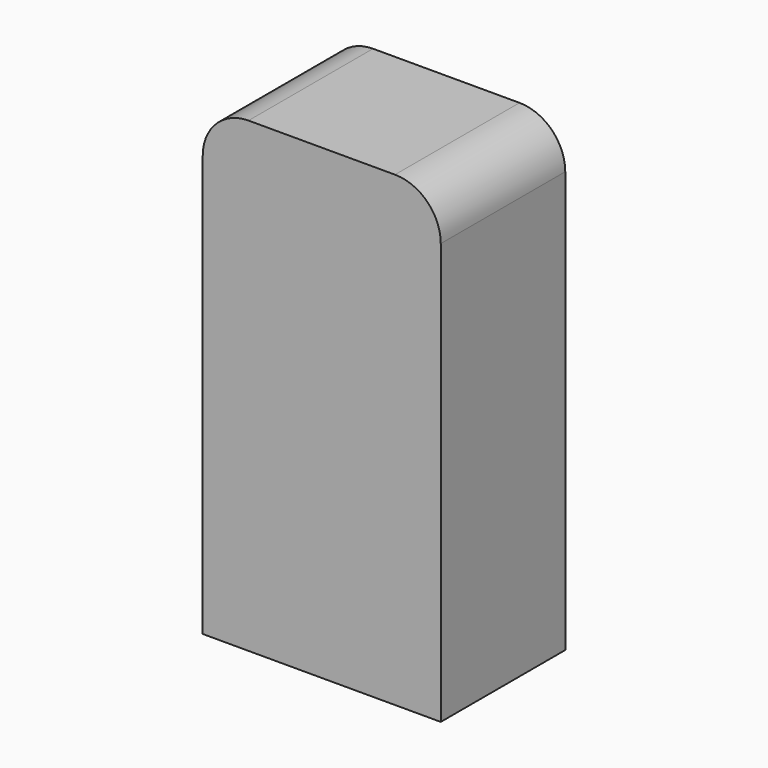
from build123d import *

# Parameters (mm, degrees)
F0_W     = 26
F0_H     = 51
F1_DEPTH = 17
F2_R     = 5


with BuildPart() as f1:
    # F0 (on Front) → F1 (new body)
    with BuildSketch(Plane.XZ):
        Rectangle(F0_W, F0_H)
    extrude(amount=F1_DEPTH)

    # F2
    f2_edges = [f1.edges().sort_by_distance(p)[0] for p in [
        (13, -8.5, 25.5),
        (-13, -8.5, 25.5),
    ]]
    fillet(f2_edges, radius=F2_R)


solid = f1.part
